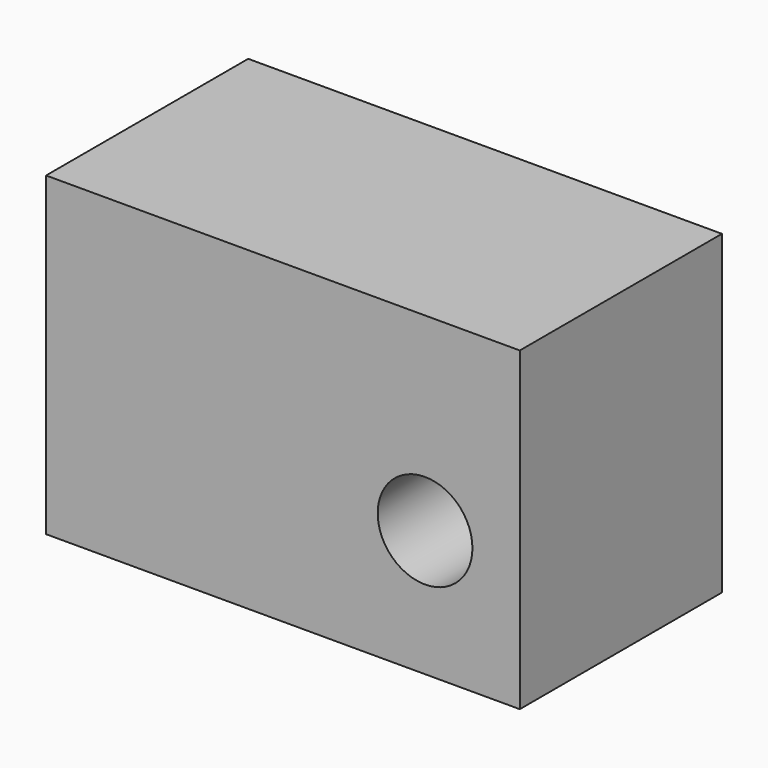
from build123d import *

# Parameters (mm, degrees)
F0_W     = 15
F0_H     = 20
F1_DEPTH = 40
F2_R     = 7.5
F3_DEPTH = 40


with BuildPart() as f1:
    # F0 (on Front) → F1 (new body)
    with BuildSketch(Plane.XZ):
        Polygon((0, -20), (0, 0), (15, 0), (15, 30), (-60, 30), (-60, -20), align=None)
        with Locations((7.5, -10)):
            Rectangle(F0_W, F0_H)
    extrude(amount=F1_DEPTH)

    # F2 (on face) → F3 (cut, through all)
    with BuildSketch(Plane.XZ.offset(40)):
        Circle(F2_R)
    extrude(amount=-F3_DEPTH, mode=Mode.SUBTRACT)


solid = f1.part
